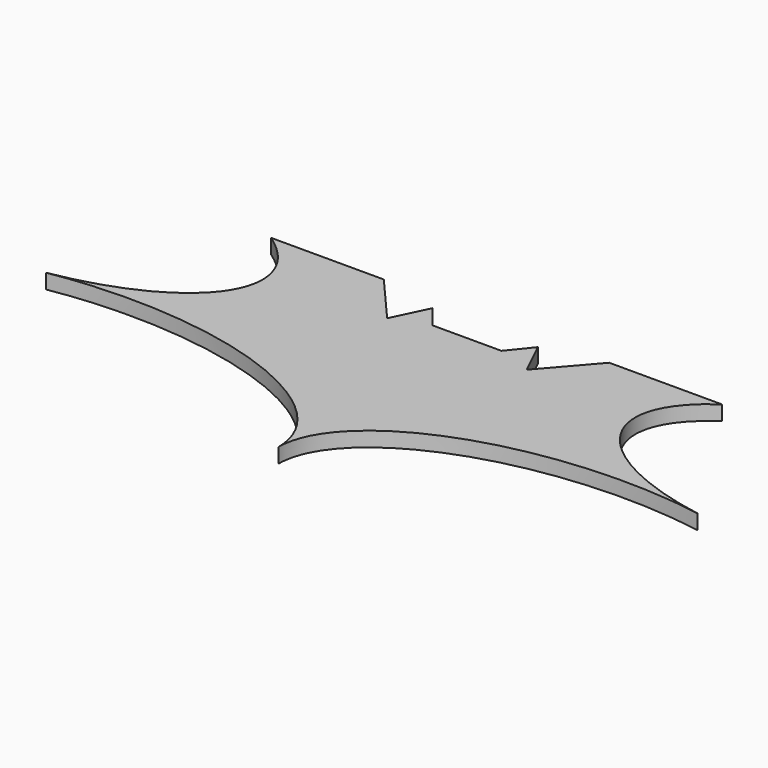
from build123d import *

# Parameters (mm, degrees)
F1_DEPTH = 3


with BuildPart() as f1:
    # F0 (on Top) → F1 (new body)
    with BuildSketch(Plane.XY):
        with BuildLine():
            Line((45.7409886244, 30), (22.8704943122, 30))
            Line((22.8704943122, 30), (14.1409871341, 19.9385266751))
            Line((14.1409871341, 19.9385266751), (10.6983644129, 27.1106567234))
            Line((10.6983644129, 27.1106567234), (6.9688570859, 22.520493716))
            Line((6.9688570859, 22.520493716), (0, 22.520493716))
            Line((0, 22.520493716), (0, -25.2958586258))
            add(Edge.make_bspline(
                [(66.0982956285, -1.6270770885), (0, 9.6120936087), (0, -25.2958586258)],
                knots=[4.3845837416, 4.3845837416, 4.3845837416, 6.2831853072, 6.2831853072, 6.2831853072], degree=2, weights=[1, 0.5822517013, 1]))
            add(Edge.make_bspline(
                [(45.7409886244, 30), (12.8548277611, 7.5021534264), (66.0982956285, -1.6270770885)],
                knots=[5.6606071237, 5.6606071237, 5.6606071237, 7.5180502874, 7.5180502874, 7.5180502874], degree=2, weights=[1, 0.598858299, 1]))
        make_face()
        with BuildLine():
            Line((0, -25.2958586258), (0, 22.520493716))
            Line((0, 22.520493716), (-6.969, 22.520493716))
            Line((-6.969, 22.520493716), (-10.69, 27.1106567234))
            Line((-10.69, 27.1106567234), (-14.14, 19.9385266751))
            Line((-14.14, 19.9385266751), (-22.87, 30))
            Line((-22.87, 30), (-45.7409886244, 30))
            add(Edge.make_bspline(
                [(-66.0982956285, -1.6270770885), (-12.8548277611, 7.5021534264), (-45.7409886244, 30)],
                knots=[5.048320327, 5.048320327, 5.048320327, 6.9057634906, 6.9057634906, 6.9057634906], degree=2, weights=[1, 0.598858299, 1]))
            add(Edge.make_bspline(
                [(0, -25.2958586258), (0, 9.6120936087), (-66.0982956285, -1.6270770885)],
                knots=[0, 0, 0, 1.8986015656, 1.8986015656, 1.8986015656], degree=2, weights=[1, 0.5822517013, 1]))
        make_face()
    extrude(amount=F1_DEPTH)


solid = f1.part
